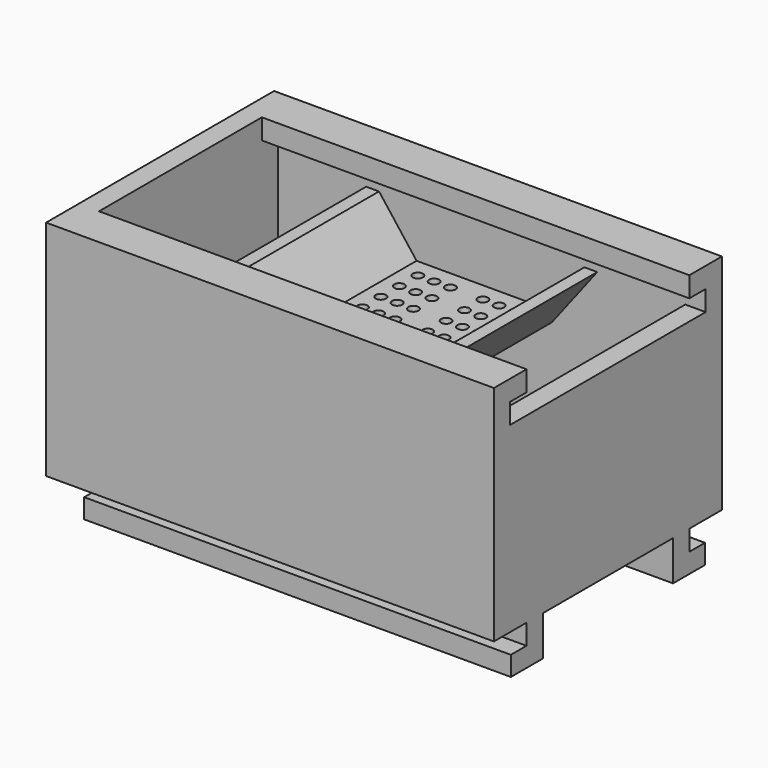
from build123d import *

# Parameters (mm, degrees)
F0_W      = 69.85
F0_H      = 44.45
F1_DEPTH  = 3.175
F2_W      = 69.85
F2_H      = 44.45
F2_W_2    = 63.5
F2_H_2    = 38.1
F3_DEPTH  = 25.273
F5_DEPTH  = 38.1
F6_R      = 0.79375
F7_DEPTH  = 1.5875
F8_W      = 69.85
F8_H      = 44.45
F9_DEPTH  = 6.35
F10_W     = 63.5
F10_H     = 3.175
F11_DEPTH = 3.175
F12_W     = 63.5
F12_H     = 3.175
F13_DEPTH = 3.175
F14_W     = 31.75
F14_H     = 3.175
F15_DEPTH = 3.175
F16_W     = 69.85
F16_H     = 3.175
F17_DEPTH = 6.223
F18_W     = 69.85
F18_H     = 3.048
F19_DEPTH = 3.048
F20_W     = 69.85
F20_H     = 3.048
F21_DEPTH = 3.048
F22_W     = 3.302
F22_H     = 6.223
F23_DEPTH = 38.1


with BuildPart() as f1:
    # F0 (on Top) → F1 (new body)
    with BuildSketch(Plane.XY):
        with Locations((34.925, -22.225)):
            Rectangle(F0_W, F0_H)
    extrude(amount=F1_DEPTH)

    # F2 (on face) → F3 (join)
    with BuildSketch(Plane.XY.offset(3.175)):
        with Locations((34.925, -22.225)):
            Rectangle(F2_W, F2_H)
        with Locations((34.925, -22.225)):
            Rectangle(F2_W_2, F2_H_2, mode=Mode.SUBTRACT)
    extrude(amount=F3_DEPTH)

    # F4 (on face) → F5 (join, through all)
    with BuildSketch(Plane.XZ.offset(3.175)):
        Polygon((34.925, 19.2405), (34.925, 20.828), (24.765, 20.828), (18.9080913895, 28.448), (16.9058381181, 28.448), (23.9829360225, 19.2405), (33.274, 19.2405), align=None)
        Polygon((45.085, 20.828), (34.925, 20.828), (34.925, 19.2405), (45.8670639775, 19.2405), (52.9441618819, 28.448), (50.9419086105, 28.448), align=None)
    extrude(amount=F5_DEPTH)

    # F6 (on face) → F7 (cut, through all)
    with BuildSketch(Plane.XY.offset(20.828)):
        with Locations((27.3135136813, -6.1057861894)):
            Circle(F6_R)
        with Locations((29.8535136813, -6.1057861894)):
            Circle(F6_R)
        with Locations((32.3935136813, -6.1057861894)):
            Circle(F6_R)
        with Locations((27.305, -9.7028)):
            Circle(F6_R)
        with Locations((29.845, -9.7028)):
            Circle(F6_R)
        with Locations((32.385, -9.7028)):
            Circle(F6_R)
        with Locations((27.2964863187, -13.2998138106)):
            Circle(F6_R)
        with Locations((29.8364863187, -13.2998138106)):
            Circle(F6_R)
        with Locations((32.3764863187, -13.2998138106)):
            Circle(F6_R)
        with Locations((27.2879726374, -16.8968276211)):
            Circle(F6_R)
        with Locations((29.8279726374, -16.8968276211)):
            Circle(F6_R)
        with Locations((32.3679726374, -16.8968276211)):
            Circle(F6_R)
        with Locations((27.2794589561, -20.4938414317)):
            Circle(F6_R)
        with Locations((29.8194589561, -20.4938414317)):
            Circle(F6_R)
        with Locations((32.3594589561, -20.4938414317)):
            Circle(F6_R)
        with Locations((42.5364863187, -6.1057861894)):
            Circle(F6_R)
        with Locations((39.9964863187, -6.1057861894)):
            Circle(F6_R)
        with Locations((37.4564863187, -6.1057861894)):
            Circle(F6_R)
        with Locations((37.465, -9.7028)):
            Circle(F6_R)
        with Locations((40.005, -9.7028)):
            Circle(F6_R)
        with Locations((42.545, -9.7028)):
            Circle(F6_R)
        with Locations((42.5535136813, -13.2998138106)):
            Circle(F6_R)
        with Locations((40.0135136813, -13.2998138106)):
            Circle(F6_R)
        with Locations((37.4735136813, -13.2998138106)):
            Circle(F6_R)
        with Locations((42.5620273626, -16.8968276211)):
            Circle(F6_R)
        with Locations((40.0220273626, -16.8968276211)):
            Circle(F6_R)
        with Locations((37.4820273626, -16.8968276211)):
            Circle(F6_R)
        with Locations((42.5705410439, -20.4938414317)):
            Circle(F6_R)
        with Locations((40.0305410439, -20.4938414317)):
            Circle(F6_R)
        with Locations((37.4905410439, -20.4938414317)):
            Circle(F6_R)
        with Locations((27.2794589561, -23.9561585683)):
            Circle(F6_R)
        with Locations((29.8194589561, -23.9561585683)):
            Circle(F6_R)
        with Locations((32.3594589561, -23.9561585683)):
            Circle(F6_R)
        with Locations((27.2879726374, -27.5531723789)):
            Circle(F6_R)
        with Locations((29.8279726374, -27.5531723789)):
            Circle(F6_R)
        with Locations((32.3679726374, -27.5531723789)):
            Circle(F6_R)
        with Locations((32.3764863187, -31.1501861894)):
            Circle(F6_R)
        with Locations((29.8364863187, -31.1501861894)):
            Circle(F6_R)
        with Locations((27.2964863187, -31.1501861894)):
            Circle(F6_R)
        with Locations((27.305, -34.7472)):
            Circle(F6_R)
        with Locations((29.845, -34.7472)):
            Circle(F6_R)
        with Locations((32.385, -34.7472)):
            Circle(F6_R)
        with Locations((32.3935136813, -38.3442138106)):
            Circle(F6_R)
        with Locations((29.8535136813, -38.3442138106)):
            Circle(F6_R)
        with Locations((27.3135136813, -38.3442138106)):
            Circle(F6_R)
        with Locations((37.4564863187, -38.3442138106)):
            Circle(F6_R)
        with Locations((39.9964863187, -38.3442138106)):
            Circle(F6_R)
        with Locations((42.5364863187, -38.3442138106)):
            Circle(F6_R)
        with Locations((37.465, -34.7472)):
            Circle(F6_R)
        with Locations((40.005, -34.7472)):
            Circle(F6_R)
        with Locations((42.545, -34.7472)):
            Circle(F6_R)
        with Locations((37.4735136813, -31.1501861894)):
            Circle(F6_R)
        with Locations((40.0135136813, -31.1501861894)):
            Circle(F6_R)
        with Locations((42.5535136813, -31.1501861894)):
            Circle(F6_R)
        with Locations((37.4820273626, -27.5531723789)):
            Circle(F6_R)
        with Locations((40.0220273626, -27.5531723789)):
            Circle(F6_R)
        with Locations((42.5620273626, -27.5531723789)):
            Circle(F6_R)
        with Locations((37.4905410439, -23.9561585683)):
            Circle(F6_R)
        with Locations((40.0305410439, -23.9561585683)):
            Circle(F6_R)
        with Locations((42.5705410439, -23.9561585683)):
            Circle(F6_R)
    extrude(amount=-F7_DEPTH, mode=Mode.SUBTRACT)

    # F8 (on face) → F9 (join)
    with BuildSketch(Plane.XY.offset(28.448)):
        with Locations((34.925, -22.225)):
            Rectangle(F8_W, F8_H)
        Polygon((18.9080913895, -41.275), (16.9058381181, -41.275), (3.175, -41.275), (3.175, -3.175), (16.9058381181, -3.175), (18.9080913895, -3.175), (50.9419086105, -3.175), (52.9441618819, -3.175), (66.675, -3.175), (66.675, -41.275), (52.9441618819, -41.275), (50.9419086105, -41.275), align=None, mode=Mode.SUBTRACT)
    extrude(amount=F9_DEPTH)

    # F10 (on face) → F11 (join)
    with BuildSketch(Plane(origin=(0, -41.275, 0), x_dir=(-1, 0, 0), z_dir=(0, 1, 0))):
        with Locations((-34.925, 33.2105)):
            Rectangle(F10_W, F10_H)
    extrude(amount=F11_DEPTH)

    # F12 (on face) → F13 (join)
    with BuildSketch(Plane.XZ.offset(3.175)):
        with Locations((34.925, 33.2105)):
            Rectangle(F12_W, F12_H)
    extrude(amount=F13_DEPTH)

    # F14 (on face) → F15 (cut, through all)
    with BuildSketch(Plane.YZ.offset(69.85)):
        with Locations((-22.225, 33.2105)):
            Rectangle(F14_W, F14_H)
        Polygon((-6.35, 31.623), (-38.1, 31.623), (-41.275, 31.623), (-41.275, 28.448), (-3.175, 28.448), (-3.175, 31.623), align=None)
    extrude(amount=-F15_DEPTH, mode=Mode.SUBTRACT)

    # F16 (on face) → F17 (join)
    with BuildSketch(Plane(origin=(0, 0, 0), x_dir=(1, 0, 0), z_dir=(0, 0, -1))):
        with Locations((34.925, 7.9375)):
            Rectangle(F16_W, F16_H)
        with Locations((34.925, 36.5125)):
            Rectangle(F16_W, F16_H)
    extrude(amount=F17_DEPTH)

    # F18 (on face) → F19 (join)
    with BuildSketch(Plane.XZ.offset(38.1)):
        with Locations((34.925, -4.699)):
            Rectangle(F18_W, F18_H)
    extrude(amount=F19_DEPTH)

    # F20 (on face) → F21 (join)
    with BuildSketch(Plane(origin=(0, -6.35, 0), x_dir=(-1, 0, 0), z_dir=(0, 1, 0))):
        with Locations((-34.925, -4.699)):
            Rectangle(F20_W, F20_H)
    extrude(amount=F21_DEPTH)

    # F22 (on face) → F23 (cut)
    with BuildSketch(Plane.XZ.offset(41.148)):
        with Locations((1.651, -3.1115)):
            Rectangle(F22_W, F22_H)
    extrude(amount=-F23_DEPTH, mode=Mode.SUBTRACT)


solid = f1.part
